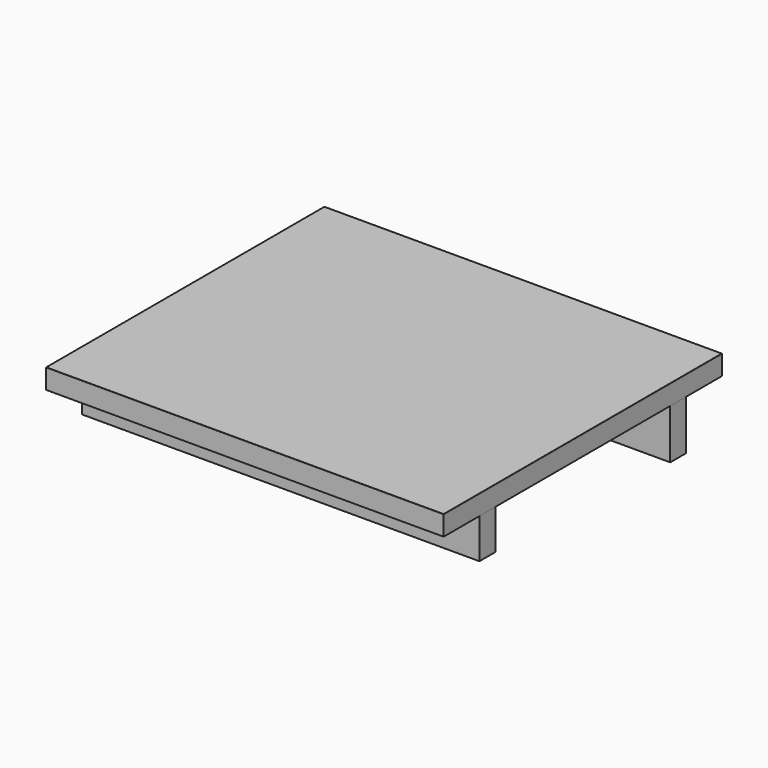
from build123d import *

# Parameters (mm, degrees)
F0_W             = 400
F0_H             = 45
F0_H_2           = 20
F0_H_3           = 220
F1_DEPTH         = 20
F2_DEPTH         = 40
F3_DEPTH         = 50
F6_D             = 3
F6_DEPTH         = 50
F6_CBORE_D       = 5
F6_CBORE_DEPTH   = 20
F6_TIP           = 0.9012909285
F6_2_D           = 3
F6_2_DEPTH       = 50
F6_2_CBORE_D     = 5
F6_2_CBORE_DEPTH = 20
F6_2_TIP         = 0.9012909285
F9_D             = 3
F9_DEPTH         = 60
F9_CBORE_D       = 5
F9_CBORE_DEPTH   = 25
F9_TIP           = 0.9012909285
F9_2_D           = 3
F9_2_DEPTH       = 60
F9_2_CBORE_D     = 5
F9_2_CBORE_DEPTH = 25
F9_2_TIP         = 0.9012909285
F10_SIZE         = 0.1


with BuildPart() as f1:
    # F0 (on Top) → F1 (new body)
    with BuildSketch(Plane.XY):
        with Locations((0, 152.5)):
            Rectangle(F0_W, F0_H)
        with Locations((0, 120)):
            Rectangle(F0_W, F0_H_2)
        Rectangle(F0_W, F0_H_3)
        with Locations((0, -120)):
            Rectangle(F0_W, F0_H_2)
        with Locations((0, -152.5)):
            Rectangle(F0_W, F0_H)
    extrude(amount=F1_DEPTH)

    # F6
    with Locations(Plane(origin=(0, 0, -40), x_dir=(1, 0, 0), z_dir=(0, 0, -1))):
        with Locations((-125, 120), (0, 120), (125, 120)):
            CounterBoreHole(F6_D / 2, F6_CBORE_D / 2, F6_CBORE_DEPTH, depth=F6_DEPTH)
            with Locations((0, 0, -(F6_DEPTH + F6_TIP / 2))):  # 118° drill point
                Cone(0, F6_D / 2, F6_TIP, mode=Mode.SUBTRACT)

    # F9
    with Locations(Plane(origin=(0, 0, -50), x_dir=(1, 0, 0), z_dir=(0, 0, -1))):
        with Locations((125, -120), (0, -120), (-125, -120)):
            CounterBoreHole(F9_D / 2, F9_CBORE_D / 2, F9_CBORE_DEPTH, depth=F9_DEPTH)
            with Locations((0, 0, -(F9_DEPTH + F9_TIP / 2))):  # 118° drill point
                Cone(0, F9_D / 2, F9_TIP, mode=Mode.SUBTRACT)

    # F10
    f10_edges = [f1.edges().sort_by_distance(p)[0] for p in [
        (-200, 0, 20),
        (0, -175, 20),
        (200, 0, 20),
        (0, 175, 20),
    ]]
    chamfer(f10_edges, length=F10_SIZE)


with BuildPart() as f2:
    # F0 (on Top) → F2 (new body)
    with BuildSketch(Plane.XY):
        with Locations((0, -120)):
            Rectangle(F0_W, F0_H_2)
    extrude(amount=-F2_DEPTH)

    # F6#2
    with Locations(Plane(origin=(0, 0, -40), x_dir=(1, 0, 0), z_dir=(0, 0, -1))):
        with Locations((-125, 120), (0, 120), (125, 120)):
            CounterBoreHole(F6_2_D / 2, F6_2_CBORE_D / 2, F6_2_CBORE_DEPTH, depth=F6_2_DEPTH)
            with Locations((0, 0, -(F6_2_DEPTH + F6_2_TIP / 2))):  # 118° drill point
                Cone(0, F6_2_D / 2, F6_2_TIP, mode=Mode.SUBTRACT)


with BuildPart() as f3:
    # F0 (on Top) → F3 (new body)
    with BuildSketch(Plane.XY):
        with Locations((0, 120)):
            Rectangle(F0_W, F0_H_2)
    extrude(amount=-F3_DEPTH)

    # F9#2
    with Locations(Plane(origin=(0, 0, -50), x_dir=(1, 0, 0), z_dir=(0, 0, -1))):
        with Locations((125, -120), (0, -120), (-125, -120)):
            CounterBoreHole(F9_2_D / 2, F9_2_CBORE_D / 2, F9_2_CBORE_DEPTH, depth=F9_2_DEPTH)
            with Locations((0, 0, -(F9_2_DEPTH + F9_2_TIP / 2))):  # 118° drill point
                Cone(0, F9_2_D / 2, F9_2_TIP, mode=Mode.SUBTRACT)


solid = Compound([f1.part, f2.part, f3.part])
